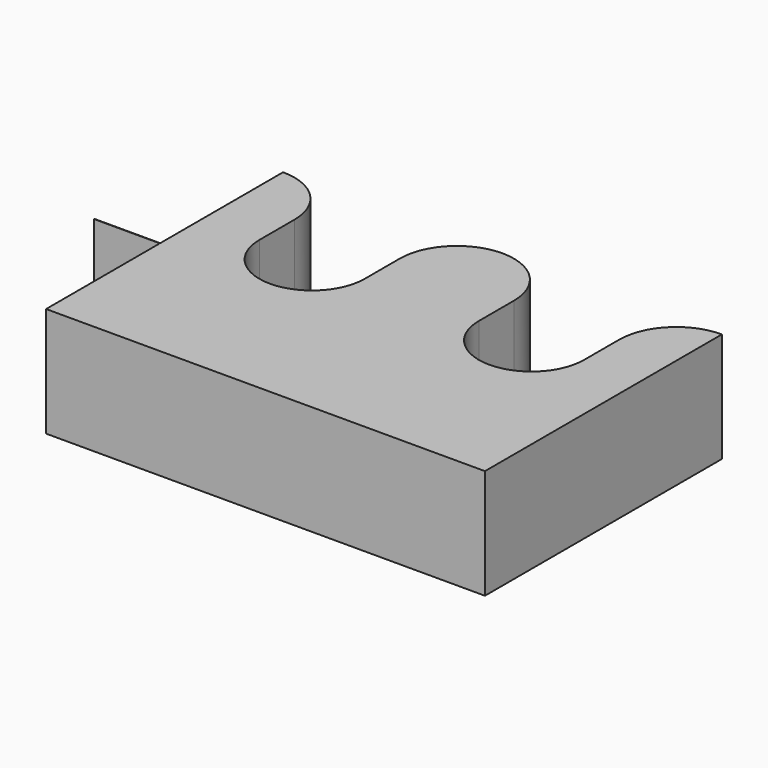
from build123d import *

# Parameters (mm, degrees)
F1_DEPTH = 25
F2_W     = 15
F2_H     = 0.1
F3_DEPTH = 25


with BuildPart() as f1:
    # F0 (on Top) → F1 (new body)
    with BuildSketch(Plane.XY):
        with BuildLine():
            ThreePointArc((13, -13), (9.192388, -3.807612), (0, 0))
            Line((0, 0), (0, -67.5))
            Line((0, -67.5), (100, -67.5))
            Line((100, -67.5), (100, 0))
            ThreePointArc((100, 0), (90.807612, -3.807612), (87, -13))
            Line((87, -13), (87, -23))
            ThreePointArc((87, -23), (75, -35), (63, -23))
            Line((63, -23), (63, -13))
            ThreePointArc((63, -13), (50, 0), (37, -13))
            Line((37, -13), (37, -23))
            ThreePointArc((37, -23), (25, -35), (13, -23))
            Line((13, -23), (13, -13))
        make_face()
    extrude(amount=F1_DEPTH)

    # F2 (on Top) → F3 (join)
    with BuildSketch(Plane.XY):
        with Locations((-7.5, -35.05)):
            Rectangle(F2_W, F2_H)
    extrude(amount=F3_DEPTH)


solid = f1.part
